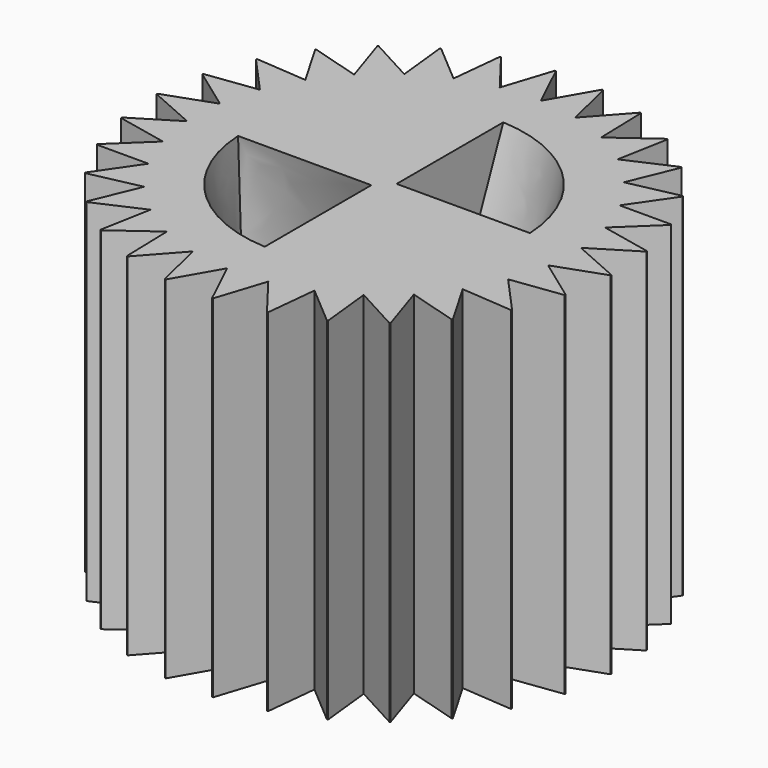
from build123d import *

# Parameters (mm, degrees)
F1_DEPTH = 19.05


with BuildPart() as f1:
    # F0 (on Top) → F1 (new body)
    with BuildSketch(Plane.XY):
        with BuildLine():
            ThreePointArc((10.16, 0), (10.154376, 0.337992), (10.137512, 0.675609))
            ThreePointArc((10.137512, 0.675609), (10.011357, 1.731566), (9.775516, 2.768553))
            ThreePointArc((9.775516, 2.768553), (9.432572, 3.775206), (8.986283, 4.740497))
            ThreePointArc((8.986283, 4.740497), (8.441539, 5.653851), (7.804307, 6.505259))
            ThreePointArc((7.804307, 6.505259), (7.081569, 7.285395), (6.281244, 7.98571))
            ThreePointArc((6.281244, 7.98571), (5.412101, 8.598533), (4.483662, 9.117148))
            ThreePointArc((4.483662, 9.117148), (3.506098, 9.535873), (2.490121, 9.850122))
            ThreePointArc((2.490121, 9.850122), (1.446862, 10.05645), (0.387751, 10.152598))
            ThreePointArc((0.387751, 10.152598), (-0.675609, 10.137512), (-1.731566, 10.011357))
            ThreePointArc((-1.731566, 10.011357), (-2.768553, 9.775516), (-3.775206, 9.432572))
            ThreePointArc((-3.775206, 9.432572), (-4.740497, 8.986283), (-5.653851, 8.441539))
            ThreePointArc((-5.653851, 8.441539), (-6.505259, 7.804307), (-7.285395, 7.081569))
            ThreePointArc((-7.285395, 7.081569), (-7.98571, 6.281244), (-8.598533, 5.412101))
            ThreePointArc((-8.598533, 5.412101), (-9.117148, 4.483662), (-9.535873, 3.506098))
            ThreePointArc((-9.535873, 3.506098), (-9.850122, 2.490121), (-10.05645, 1.446862))
            ThreePointArc((-10.05645, 1.446862), (-10.152598, 0.387751), (-10.137512, -0.675609))
            ThreePointArc((-10.137512, -0.675609), (-10.011357, -1.731566), (-9.775516, -2.768553))
            ThreePointArc((-9.775516, -2.768553), (-9.432572, -3.775206), (-8.986283, -4.740497))
            ThreePointArc((-8.986283, -4.740497), (-8.441539, -5.653851), (-7.804307, -6.505259))
            ThreePointArc((-7.804307, -6.505259), (-7.081569, -7.285395), (-6.281244, -7.98571))
            ThreePointArc((-6.281244, -7.98571), (-5.412101, -8.598533), (-4.483662, -9.117148))
            ThreePointArc((-4.483662, -9.117148), (-3.506098, -9.535873), (-2.490121, -9.850122))
            ThreePointArc((-2.490121, -9.850122), (-1.446862, -10.05645), (-0.387751, -10.152598))
            ThreePointArc((-0.387751, -10.152598), (0.675609, -10.137512), (1.731566, -10.011357))
            ThreePointArc((1.731566, -10.011357), (2.768553, -9.775516), (3.775206, -9.432572))
            ThreePointArc((3.775206, -9.432572), (4.740497, -8.986283), (5.653851, -8.441539))
            ThreePointArc((5.653851, -8.441539), (6.505259, -7.804307), (7.285395, -7.081569))
            ThreePointArc((7.285395, -7.081569), (7.98571, -6.281244), (8.598533, -5.412101))
            ThreePointArc((8.598533, -5.412101), (9.117148, -4.483662), (9.535873, -3.506098))
            ThreePointArc((9.535873, -3.506098), (9.850122, -2.490121), (10.05645, -1.446862))
            ThreePointArc((10.05645, -1.446862), (10.134079, -0.725281), (10.16, 0))
        make_face()
        with BuildLine():
            ThreePointArc((0.387751, 10.152598), (1.446862, 10.05645), (2.490121, 9.850122))
            Line((2.490121, 9.850122), (1.836296, 12.566544))
            ThreePointArc((1.836296, 12.566544), (1.808578, 12.570563), (1.780851, 12.574521))
            Line((1.780851, 12.574521), (0.387751, 10.152598))
        make_face()
        with BuildLine():
            ThreePointArc((2.490121, 9.850122), (3.506098, 9.535873), (4.483662, 9.117148))
            Line((4.483662, 9.117148), (4.4089, 11.910147))
            ThreePointArc((4.4089, 11.910147), (4.382623, 11.919841), (4.356325, 11.929478))
            Line((4.356325, 11.929478), (2.490121, 9.850122))
        make_face()
        with BuildLine():
            ThreePointArc((4.483662, 9.117148), (5.412101, 8.598533), (6.281244, 7.98571))
            Line((6.281244, 7.98571), (6.788813, 10.73322))
            ThreePointArc((6.788813, 10.73322), (6.765126, 10.748166), (6.741406, 10.763059))
            Line((6.741406, 10.763059), (4.483662, 9.117148))
        make_face()
        with BuildLine():
            ThreePointArc((6.281244, 7.98571), (7.081569, 7.285395), (7.804307, 6.505259))
            Line((7.804307, 6.505259), (8.872024, 9.0872))
            ThreePointArc((8.872024, 9.0872), (8.851961, 9.106744), (8.831856, 9.126243))
            Line((8.831856, 9.126243), (6.281244, 7.98571))
        make_face()
        with BuildLine():
            ThreePointArc((7.804307, 6.505259), (8.441539, 5.653851), (8.986283, 4.740497))
            Line((8.986283, 4.740497), (10.567484, 7.044025))
            ThreePointArc((10.567484, 7.044025), (10.551923, 7.067313), (10.536312, 7.090567))
            Line((10.536312, 7.090567), (7.804307, 6.505259))
        make_face()
        with BuildLine():
            Line((9.775516, 2.768553), (11.801094, 4.692993))
            ThreePointArc((11.801094, 4.692993), (11.790715, 4.719007), (11.78028, 4.744999))
            Line((11.78028, 4.744999), (8.986283, 4.740497))
            ThreePointArc((8.986283, 4.740497), (9.432572, 3.775206), (9.775516, 2.768553))
        make_face()
        with BuildLine():
            Line((10.137512, 0.675609), (12.51894, 2.136854))
            ThreePointArc((12.51894, 2.136854), (12.514197, 2.164458), (12.509393, 2.192051))
            Line((12.509393, 2.192051), (9.775516, 2.768553))
            ThreePointArc((9.775516, 2.768553), (10.011357, 1.731566), (10.137512, 0.675609))
        make_face()
        with BuildLine():
            ThreePointArc((12.305758, -3.139798), (12.312652, -3.112652), (12.319487, -3.08549))
            Line((12.319487, -3.08549), (10.05645, -1.446862))
            ThreePointArc((10.05645, -1.446862), (9.850122, -2.490121), (9.535873, -3.506098))
            Line((9.535873, -3.506098), (12.305758, -3.139798))
        make_face()
        with BuildLine():
            Line((9.999429, -7.829522), (8.598533, -5.412101))
            ThreePointArc((8.598533, -5.412101), (7.98571, -6.281244), (7.285395, -7.081569))
            Line((7.285395, -7.081569), (9.964798, -7.873551))
            ThreePointArc((9.964798, -7.873551), (9.982138, -7.851555), (9.999429, -7.829522))
        make_face()
        with BuildLine():
            Line((8.153068, -9.737427), (7.285395, -7.081569))
            ThreePointArc((7.285395, -7.081569), (6.505259, -7.804307), (5.653851, -8.441539))
            Line((5.653851, -8.441539), (8.11004, -9.773293))
            ThreePointArc((8.11004, -9.773293), (8.131574, -9.755383), (8.153068, -9.737427))
        make_face()
        with BuildLine():
            Line((5.950379, -11.219759), (5.653851, -8.441539))
            ThreePointArc((5.653851, -8.441539), (4.740497, -8.986283), (3.775206, -9.432572))
            Line((3.775206, -9.432572), (5.900834, -11.245895))
            ThreePointArc((5.900834, -11.245895), (5.925621, -11.232854), (5.950379, -11.219759))
        make_face()
        with BuildLine():
            Line((3.48763, -12.211733), (3.775206, -9.432572))
            ThreePointArc((3.775206, -9.432572), (2.768553, -9.775516), (1.731566, -10.011357))
            Line((1.731566, -10.011357), (3.433734, -12.226998))
            ThreePointArc((3.433734, -12.226998), (3.460691, -12.219395), (3.48763, -12.211733))
        make_face()
        with BuildLine():
            Line((0.872455, -12.669997), (1.731566, -10.011357))
            ThreePointArc((1.731566, -10.011357), (0.675609, -10.137512), (-0.387751, -10.152598))
            Line((-0.387751, -10.152598), (0.816563, -12.673722))
            ThreePointArc((0.816563, -12.673722), (0.844511, -12.67189), (0.872455, -12.669997))
        make_face()
        with BuildLine():
            Line((-1.780851, -12.574521), (-0.387751, -10.152598))
            ThreePointArc((-0.387751, -10.152598), (-1.446862, -10.05645), (-2.490121, -9.850122))
            Line((-2.490121, -9.850122), (-1.836296, -12.566544))
            ThreePointArc((-1.836296, -12.566544), (-1.808578, -12.570563), (-1.780851, -12.574521))
        make_face()
        with BuildLine():
            Line((-4.356325, -11.929478), (-2.490121, -9.850122))
            ThreePointArc((-2.490121, -9.850122), (-3.506098, -9.535873), (-4.483662, -9.117148))
            Line((-4.483662, -9.117148), (-4.4089, -11.910147))
            ThreePointArc((-4.4089, -11.910147), (-4.382623, -11.919841), (-4.356325, -11.929478))
        make_face()
        with BuildLine():
            Line((-6.741406, -10.763059), (-4.483662, -9.117148))
            ThreePointArc((-4.483662, -9.117148), (-5.412101, -8.598533), (-6.281244, -7.98571))
            Line((-6.281244, -7.98571), (-6.788813, -10.73322))
            ThreePointArc((-6.788813, -10.73322), (-6.765126, -10.748166), (-6.741406, -10.763059))
        make_face()
        with BuildLine():
            Line((-8.831856, -9.126243), (-6.281244, -7.98571))
            ThreePointArc((-6.281244, -7.98571), (-7.081569, -7.285395), (-7.804307, -6.505259))
            Line((-7.804307, -6.505259), (-8.872024, -9.0872))
            ThreePointArc((-8.872024, -9.0872), (-8.851961, -9.106744), (-8.831856, -9.126243))
        make_face()
        with BuildLine():
            Line((-10.536312, -7.090567), (-7.804307, -6.505259))
            ThreePointArc((-7.804307, -6.505259), (-8.441539, -5.653851), (-8.986283, -4.740497))
            Line((-8.986283, -4.740497), (-10.567484, -7.044025))
            ThreePointArc((-10.567484, -7.044025), (-10.551923, -7.067313), (-10.536312, -7.090567))
        make_face()
        with BuildLine():
            Line((-11.78028, -4.744999), (-8.986283, -4.740497))
            ThreePointArc((-8.986283, -4.740497), (-9.432572, -3.775206), (-9.775516, -2.768553))
            Line((-9.775516, -2.768553), (-11.801094, -4.692993))
            ThreePointArc((-11.801094, -4.692993), (-11.790715, -4.719007), (-11.78028, -4.744999))
        make_face()
        with BuildLine():
            Line((-12.509393, -2.192051), (-9.775516, -2.768553))
            ThreePointArc((-9.775516, -2.768553), (-10.011357, -1.731566), (-10.137512, -0.675609))
            Line((-10.137512, -0.675609), (-12.51894, -2.136854))
            ThreePointArc((-12.51894, -2.136854), (-12.514197, -2.164458), (-12.509393, -2.192051))
        make_face()
        with BuildLine():
            ThreePointArc((-8.598533, 5.412101), (-7.98571, 6.281244), (-7.285395, 7.081569))
            Line((-7.285395, 7.081569), (-9.964798, 7.873551))
            ThreePointArc((-9.964798, 7.873551), (-9.982138, 7.851555), (-9.999429, 7.829522))
            Line((-9.999429, 7.829522), (-8.598533, 5.412101))
        make_face()
        with BuildLine():
            ThreePointArc((-7.285395, 7.081569), (-6.505259, 7.804307), (-5.653851, 8.441539))
            Line((-5.653851, 8.441539), (-8.11004, 9.773293))
            ThreePointArc((-8.11004, 9.773293), (-8.131574, 9.755383), (-8.153068, 9.737427))
            Line((-8.153068, 9.737427), (-7.285395, 7.081569))
        make_face()
        with BuildLine():
            ThreePointArc((-5.653851, 8.441539), (-4.740497, 8.986283), (-3.775206, 9.432572))
            Line((-3.775206, 9.432572), (-5.900834, 11.245895))
            ThreePointArc((-5.900834, 11.245895), (-5.925621, 11.232854), (-5.950379, 11.219759))
            Line((-5.950379, 11.219759), (-5.653851, 8.441539))
        make_face()
        with BuildLine():
            ThreePointArc((-3.775206, 9.432572), (-2.768553, 9.775516), (-1.731566, 10.011357))
            Line((-1.731566, 10.011357), (-3.433734, 12.226998))
            ThreePointArc((-3.433734, 12.226998), (-3.460691, 12.219395), (-3.48763, 12.211733))
            Line((-3.48763, 12.211733), (-3.775206, 9.432572))
        make_face()
        with BuildLine():
            ThreePointArc((-1.731566, 10.011357), (-0.675609, 10.137512), (0.387751, 10.152598))
            Line((0.387751, 10.152598), (-0.816563, 12.673722))
            ThreePointArc((-0.816563, 12.673722), (-0.844511, 12.67189), (-0.872455, 12.669997))
            Line((-0.872455, 12.669997), (-1.731566, 10.011357))
        make_face()
        with BuildLine():
            ThreePointArc((-9.535873, 3.506098), (-9.117148, 4.483662), (-8.598533, 5.412101))
            Line((-8.598533, 5.412101), (-11.384047, 5.629697))
            ThreePointArc((-11.384047, 5.629697), (-11.396434, 5.604577), (-11.408767, 5.57943))
            Line((-11.408767, 5.57943), (-9.535873, 3.506098))
        make_face()
        with BuildLine():
            ThreePointArc((-10.05645, 1.446862), (-9.850122, 2.490121), (-9.535873, 3.506098))
            Line((-9.535873, 3.506098), (-12.305758, 3.139798))
            ThreePointArc((-12.305758, 3.139798), (-12.312652, 3.112652), (-12.319487, 3.08549))
            Line((-12.319487, 3.08549), (-10.05645, 1.446862))
        make_face()
        with BuildLine():
            ThreePointArc((-10.137512, -0.675609), (-10.152598, 0.387751), (-10.05645, 1.446862))
            Line((-10.05645, 1.446862), (-12.689648, 0.512675))
            ThreePointArc((-12.689648, 0.512675), (-12.690748, 0.484688), (-12.691786, 0.4567))
            Line((-12.691786, 0.4567), (-10.137512, -0.675609))
        make_face()
        with BuildLine():
            Line((11.408767, -5.57943), (9.535873, -3.506098))
            ThreePointArc((9.535873, -3.506098), (9.117148, -4.483662), (8.598533, -5.412101))
            Line((8.598533, -5.412101), (11.384047, -5.629697))
            ThreePointArc((11.384047, -5.629697), (11.396434, -5.604577), (11.408767, -5.57943))
        make_face()
        with BuildLine():
            ThreePointArc((12.689648, -0.512675), (12.690748, -0.484688), (12.691786, -0.4567))
            Line((12.691786, -0.4567), (10.137512, 0.675609))
            ThreePointArc((10.137512, 0.675609), (10.154376, 0.337992), (10.16, 0))
            ThreePointArc((10.16, 0), (10.134079, -0.725281), (10.05645, -1.446862))
            Line((10.05645, -1.446862), (12.689648, -0.512675))
        make_face()
    extrude(amount=F1_DEPTH)

    # F2 (on face) → F4 section 0
    with BuildSketch(Plane(origin=(0, 0, 0), x_dir=(1, 0, 0), z_dir=(0, 0, -1))):
        with BuildLine():
            Line((-0.381, -0.381), (-7.610469, -0.381))
            ThreePointArc((-7.610469, -0.381), (-5.388154, -5.388154), (-0.381, -7.610469))
            Line((-0.381, -7.610469), (-0.381, -0.381))
        make_face()
    # F3 (on face) → F4 section 1
    with BuildSketch(Plane.XY.offset(19.05)):
        with BuildLine():
            Line((-0.381, -0.381), (-7.610469, -0.381))
            ThreePointArc((-7.610469, -0.381), (-5.388154, -5.388154), (-0.381, -7.610469))
            Line((-0.381, -7.610469), (-0.381, -0.381))
        make_face()
    loft(mode=Mode.SUBTRACT)

    # F6 (on face) → F7 section 0
    with BuildSketch(Plane(origin=(0, 0, 0), x_dir=(1, 0, 0), z_dir=(0, 0, -1))):
        with BuildLine():
            Line((0.381, 0.381), (7.610469, 0.381))
            ThreePointArc((7.610469, 0.381), (5.388154, 5.388154), (0.381, 7.610469))
            Line((0.381, 7.610469), (0.381, 0.381))
        make_face()
    # F5 (on face) → F7 section 1
    with BuildSketch(Plane.XY.offset(19.05)):
        with BuildLine():
            Line((0.380881, 0.380881), (7.610475, 0.380881))
            ThreePointArc((7.610475, 0.380881), (5.388154, 5.388154), (0.380881, 7.610475))
            Line((0.380881, 7.610475), (0.380881, 0.380881))
        make_face()
    loft(mode=Mode.SUBTRACT)


solid = f1.part
